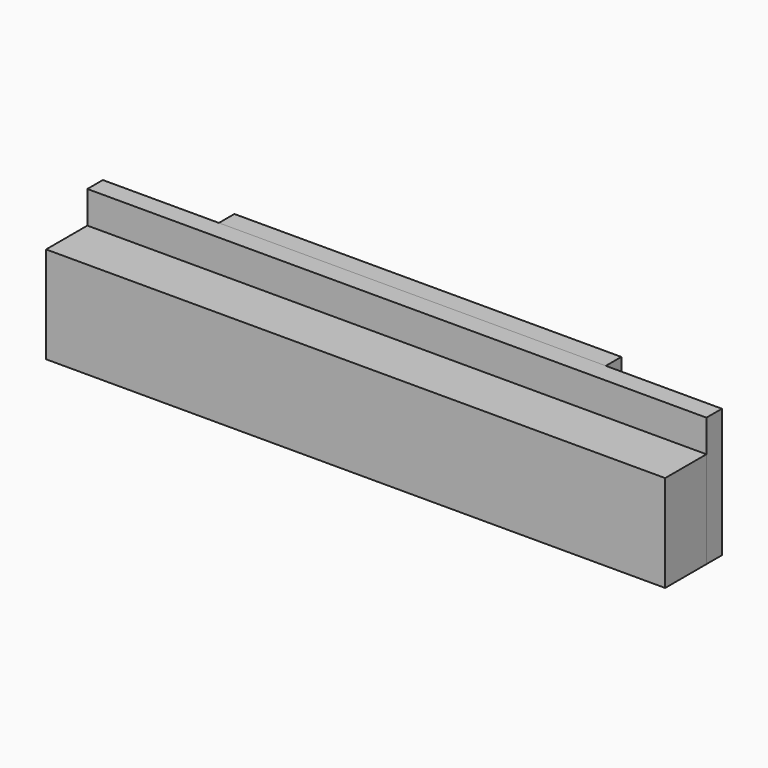
from build123d import *

# Parameters (mm, degrees)
F0_W     = 609.6
F0_H     = 95.25
F1_DEPTH = 50.8
F3_D     = 5.1054
F3_DEPTH = 12.7
F3_TIP   = 1.5338169022
F4_W     = 609.6
F4_H     = 127
F5_DEPTH = 19.05
F6_W     = 381
F6_H     = 38.1
F7_DEPTH = 19.05
F9_DEPTH = 495.301


with BuildPart() as f1:
    # F0 (on Front) → F1 (new body)
    with BuildSketch(Plane.XZ):
        with Locations((304.8, 47.625)):
            Rectangle(F0_W, F0_H)
    extrude(amount=F1_DEPTH)

    # F3
    with Locations(Plane(origin=(0, 0, 0), x_dir=(-1, 0, 0), z_dir=(0, 1, 0))):
        with Locations((-588.9625, 28.575), (-595.3125, 44.45), (-588.9625, 57.15), (-20.6375, 28.575), (-14.2875, 44.45), (-20.6375, 57.15)):
            Hole(F3_D / 2, depth=F3_DEPTH)
            with Locations((0, 0, -(F3_DEPTH + F3_TIP / 2))):  # 118° drill point
                Cone(0, F3_D / 2, F3_TIP, mode=Mode.SUBTRACT)


with BuildPart() as f5:
    # F4 (on face) → F5 (new body)
    with BuildSketch(Plane(origin=(0, 0, 0), x_dir=(-1, 0, 0), z_dir=(0, 1, 0))):
        with Locations((-304.8, 63.5)):
            Rectangle(F4_W, F4_H)
    extrude(amount=F5_DEPTH)


with BuildPart() as f7:
    # F6 (on face) → F7 (new body)
    with BuildSketch(Plane(origin=(0, 19.05, 0), x_dir=(-1, 0, 0), z_dir=(0, 1, 0))):
        with Locations((-304.8, 107.95)):
            Rectangle(F6_W, F6_H)
    extrude(amount=F7_DEPTH)

    # F8 (on face) → F9 (cut, through all)
    with BuildSketch(Plane.YZ.offset(495.3)):
        Polygon((19.05, 88.9), (38.1, 88.9), (19.05, 107.95), align=None)
    extrude(amount=-F9_DEPTH, mode=Mode.SUBTRACT)


solid = Compound([f1.part, f5.part, f7.part])
